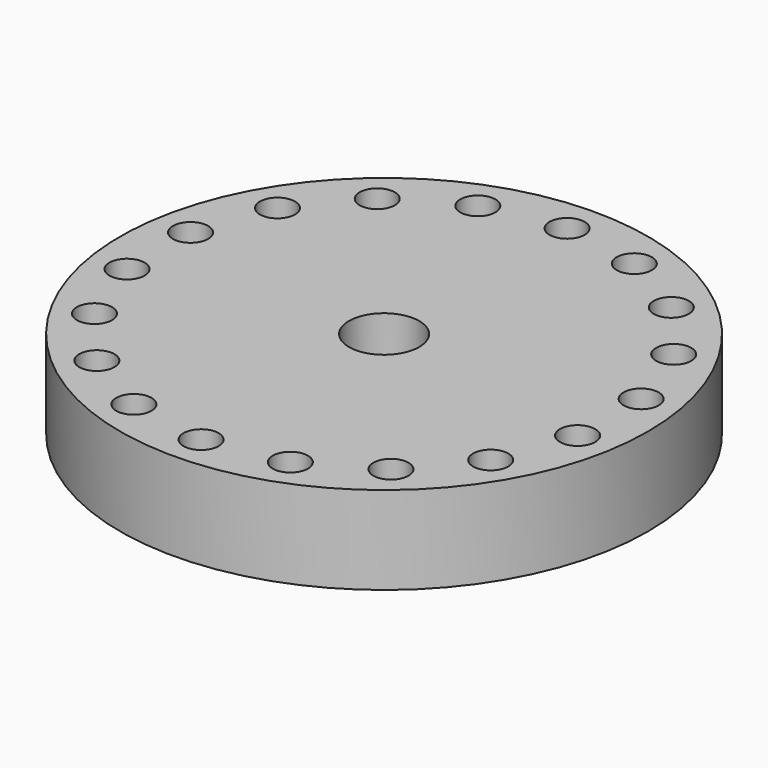
from build123d import *

# Parameters (mm, degrees)
F0_R          = 15
F3_DEPTH      = 5
F1_R          = 1
F4_DEPTH      = 5
F4_DEPTH_BACK = 1
F2_R          = 2
F5_DEPTH      = 5


with BuildPart() as f3:
    # F0 (on Top) → F3 (new body)
    with BuildSketch(Plane.XY):
        Circle(F0_R)
    extrude(amount=F3_DEPTH)

    # F1 (on Top) → F4 (cut, two sides)
    with BuildSketch(Plane.XY) as f4_sk:
        with Locations((0, 13)):
            Circle(F1_R)
        with Locations((-4.446262, 12.216004)):
            Circle(F1_R)
        with Locations((-8.356239, 9.958578)):
            Circle(F1_R)
        with Locations((-11.25833, 6.5)):
            Circle(F1_R)
        with Locations((-12.802501, 2.257426)):
            Circle(F1_R)
        with Locations((-12.802501, -2.257426)):
            Circle(F1_R)
        with Locations((-11.25833, -6.5)):
            Circle(F1_R)
        with Locations((-8.356239, -9.958578)):
            Circle(F1_R)
        with Locations((-4.446262, -12.216004)):
            Circle(F1_R)
        with Locations((0, -13)):
            Circle(F1_R)
        with Locations((4.446262, -12.216004)):
            Circle(F1_R)
        with Locations((8.356239, -9.958578)):
            Circle(F1_R)
        with Locations((11.25833, -6.5)):
            Circle(F1_R)
        with Locations((12.802501, -2.257426)):
            Circle(F1_R)
        with Locations((12.802501, 2.257426)):
            Circle(F1_R)
        with Locations((11.25833, 6.5)):
            Circle(F1_R)
        with Locations((8.356239, 9.958578)):
            Circle(F1_R)
        with Locations((4.446262, 12.216004)):
            Circle(F1_R)
    extrude(amount=F4_DEPTH, mode=Mode.SUBTRACT)
    extrude(f4_sk.sketch, amount=-F4_DEPTH_BACK, mode=Mode.SUBTRACT)

    # F2 (on Top) → F5 (cut)
    with BuildSketch(Plane.XY):
        Circle(F2_R)
    extrude(amount=F5_DEPTH, mode=Mode.SUBTRACT)


solid = f3.part
